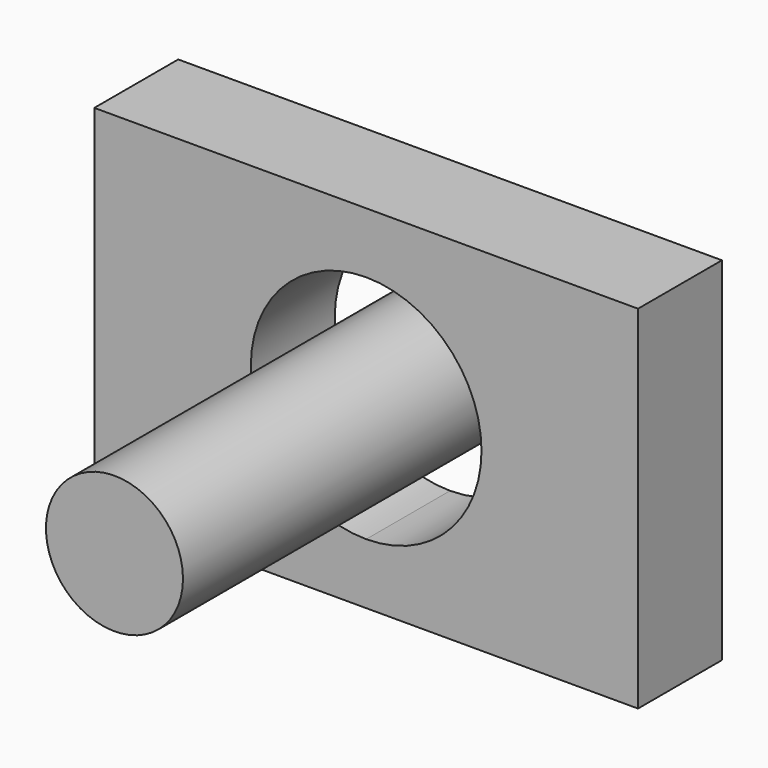
from build123d import *

# Parameters (mm, degrees)
F0_W     = 131.674846
F0_H     = 85.253622
F1_DEPTH = 25.4
F0_R     = 16.592447
F2_DEPTH = 101.6


with BuildPart() as f1:
    # F0 (on Front) → F1 (new body)
    with BuildSketch(Plane.XZ):
        Rectangle(F0_W, F0_H)
        Polygon((-40.834595, 27.929757), (0, 27.929757), (40.834595, 27.929757), (40.834595, -27.929757), (0, -27.929757), (-40.834595, -27.929757), align=None, mode=Mode.SUBTRACT)
        with BuildLine():
            ThreePointArc((0, 27.929757), (19.74932, 19.74932), (27.929757, 0))
            ThreePointArc((27.929757, 0), (19.74932, -19.74932), (0, -27.929757))
            Line((0, -27.929757), (40.834595, -27.929757))
            Line((40.834595, -27.929757), (40.834595, 27.929757))
            Line((40.834595, 27.929757), (0, 27.929757))
        make_face()
        with BuildLine():
            ThreePointArc((0, -27.929757), (-27.929757, 0), (0, 27.929757))
            Line((0, 27.929757), (-40.834595, 27.929757))
            Line((-40.834595, 27.929757), (-40.834595, -27.929757))
            Line((-40.834595, -27.929757), (0, -27.929757))
        make_face()
    extrude(amount=F1_DEPTH)


with BuildPart() as f2:
    # F0 (on Front) → F2 (new body)
    with BuildSketch(Plane.XZ):
        Circle(F0_R)
    extrude(amount=F2_DEPTH)


solid = Compound([f1.part, f2.part])
